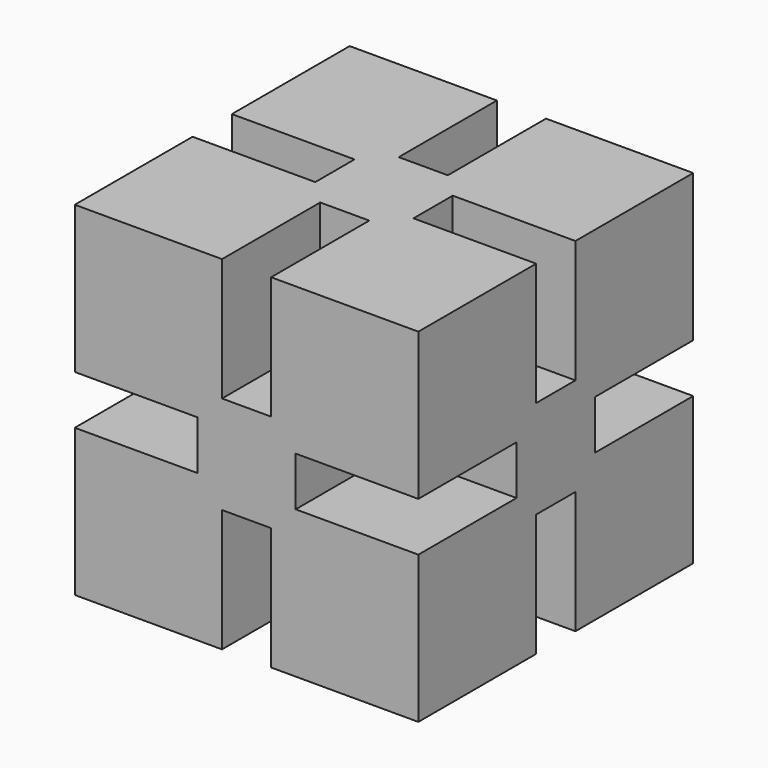
from build123d import *

# Parameters (mm, degrees)
F0_W     = 88.9
F0_H     = 88.9
F1_DEPTH = 44.45
F2_W     = 35.494227
F2_H     = 12.7
F2_W_2   = 12.7
F2_H_2   = 43.843563
F2_W_3   = 49.659715
F2_H_3   = 53.186459
F3_DEPTH = 31.75
F4_W     = 43.534182
F4_H     = 12.7
F4_W_2   = 12.7
F4_H_2   = 43.534182
F5_DEPTH = 31.75
F6_W     = 39.738709
F6_H     = 12.7
F6_W_2   = 51.209684
F7_DEPTH = 31.75
F8_W     = 39.158334
F8_H     = 12.7
F8_W_2   = 39.793333
F9_DEPTH = 31.75


with BuildPart() as f1:
    # F0 (on Top) → F1 (new body, symmetric)
    with BuildSketch(Plane.XY):
        Rectangle(F0_W, F0_H)
    extrude(amount=F1_DEPTH, both=True)

    # F2 (on face) → F3 (cut)
    with BuildSketch(Plane.XY.offset(44.45)):
        with Locations((30.447114, 0)):
            Rectangle(F2_W, F2_H)
        with Locations((0, -34.621781)):
            Rectangle(F2_W_2, F2_H_2)
        with Locations((-37.529857, 0)):
            Rectangle(F2_W_3, F2_H)
        with Locations((0, 39.29323)):
            Rectangle(F2_W_2, F2_H_3)
    extrude(amount=-F3_DEPTH, mode=Mode.SUBTRACT)

    # F4 (on face) → F5 (cut)
    with BuildSketch(Plane(origin=(0, 0, -44.45), x_dir=(1, 0, 0), z_dir=(0, 0, -1))):
        with Locations((34.467091, 0)):
            Rectangle(F4_W, F4_H)
        with Locations((0, 34.467091)):
            Rectangle(F4_W_2, F4_H_2)
        with Locations((-34.467091, 0)):
            Rectangle(F4_W, F4_H)
        with Locations((0, -34.467091)):
            Rectangle(F4_W_2, F4_H_2)
    extrude(amount=-F5_DEPTH, mode=Mode.SUBTRACT)

    # F6 (on face) → F7 (cut)
    with BuildSketch(Plane.XZ.offset(44.45)):
        with Locations((32.569354, 0)):
            Rectangle(F6_W, F6_H)
        with Locations((-38.304842, 0)):
            Rectangle(F6_W_2, F6_H)
    extrude(amount=-F7_DEPTH, mode=Mode.SUBTRACT)

    # F8 (on face) → F9 (cut)
    with BuildSketch(Plane(origin=(0, 44.45, 0), x_dir=(-1, 0, 0), z_dir=(0, 1, 0))):
        with Locations((32.279167, 0)):
            Rectangle(F8_W, F8_H)
        with Locations((-32.596666, 0)):
            Rectangle(F8_W_2, F8_H)
    extrude(amount=-F9_DEPTH, mode=Mode.SUBTRACT)


solid = f1.part
